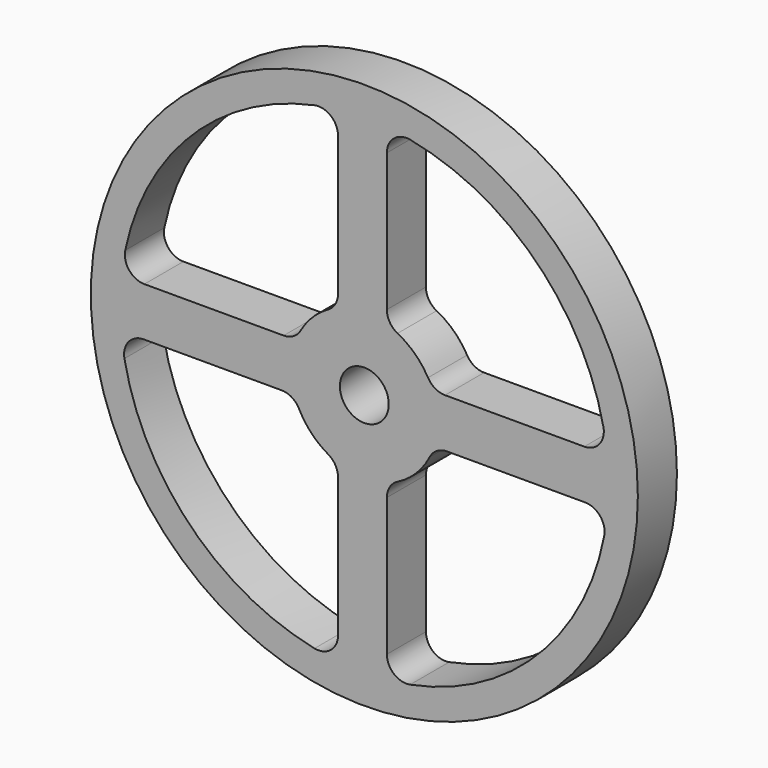
from build123d import *

# Parameters (mm, degrees)
F0_R     = 71.12
F0_R_2   = 12.7
F0_R_3   = 6.35
F1_DEPTH = 12.7


with BuildPart() as f1:
    # F0 (on Front) → F1 (new body)
    with BuildSketch(Plane.XZ):
        Circle(F0_R)
        with BuildLine():
            ThreePointArc((-9.409863, -16.563725), (-7.528622, -18.425413), (-6.839159, -20.980718))
            Line((-6.839159, -20.980718), (-6.839159, -57.191171))
            ThreePointArc((-6.839159, -57.191171), (-8.714378, -61.132716), (-12.955608, -62.164316))
            ThreePointArc((-12.955608, -62.164316), (-45.283019, -44.516269), (-62.376479, -11.892218))
            ThreePointArc((-62.376479, -11.892218), (-61.300399, -7.702523), (-57.386361, -5.860841))
            Line((-57.386361, -5.860841), (-21.50709, -5.860841))
            ThreePointArc((-21.50709, -5.860841), (-18.851392, -6.61029), (-16.979281, -8.637506))
            ThreePointArc((-16.979281, -8.637506), (-13.7769, -13.15673), (-9.409863, -16.563725))
        make_face(mode=Mode.SUBTRACT)
        Circle(F0_R_2, mode=Mode.SUBTRACT)
        with BuildLine():
            ThreePointArc((11.892218, -62.376479), (7.702523, -61.300399), (5.860841, -57.386361))
            Line((5.860841, -57.386361), (5.860841, -21.50709))
            ThreePointArc((5.860841, -21.50709), (6.61029, -18.851392), (8.637506, -16.979281))
            ThreePointArc((8.637506, -16.979281), (13.470384, -13.470384), (16.979281, -8.637506))
            ThreePointArc((16.979281, -8.637506), (18.851392, -6.61029), (21.50709, -5.860841))
            Line((21.50709, -5.860841), (57.386361, -5.860841))
            ThreePointArc((57.386361, -5.860841), (61.300399, -7.702523), (62.376479, -11.892218))
            ThreePointArc((62.376479, -11.892218), (44.901281, -44.901281), (11.892218, -62.376479))
        make_face(mode=Mode.SUBTRACT)
        with BuildLine():
            ThreePointArc((-62.164316, 12.955608), (-44.901281, 44.901281), (-12.955608, 62.164316))
            ThreePointArc((-12.955608, 62.164316), (-8.714378, 61.132716), (-6.839159, 57.191171))
            Line((-6.839159, 57.191171), (-6.839159, 20.980718))
            ThreePointArc((-6.839159, 20.980718), (-7.528622, 18.425413), (-9.409863, 16.563725))
            ThreePointArc((-9.409863, 16.563725), (-13.470384, 13.470384), (-16.563725, 9.409863))
            ThreePointArc((-16.563725, 9.409863), (-18.425413, 7.528622), (-20.980718, 6.839159))
            Line((-20.980718, 6.839159), (-57.191171, 6.839159))
            ThreePointArc((-57.191171, 6.839159), (-61.132716, 8.714378), (-62.164316, 12.955608))
        make_face(mode=Mode.SUBTRACT)
        with BuildLine():
            ThreePointArc((8.637506, 16.979281), (6.61029, 18.851392), (5.860841, 21.50709))
            Line((5.860841, 21.50709), (5.860841, 57.386361))
            ThreePointArc((5.860841, 57.386361), (7.702523, 61.300399), (11.892218, 62.376479))
            ThreePointArc((11.892218, 62.376479), (44.516269, 45.283019), (62.164316, 12.955608))
            ThreePointArc((62.164316, 12.955608), (61.132716, 8.714378), (57.191171, 6.839159))
            Line((57.191171, 6.839159), (20.980718, 6.839159))
            ThreePointArc((20.980718, 6.839159), (18.425413, 7.528622), (16.563725, 9.409863))
            ThreePointArc((16.563725, 9.409863), (13.15673, 13.7769), (8.637506, 16.979281))
        make_face(mode=Mode.SUBTRACT)
        Circle(F0_R_2)
        Circle(F0_R_3, mode=Mode.SUBTRACT)
    extrude(amount=-F1_DEPTH)


solid = f1.part
